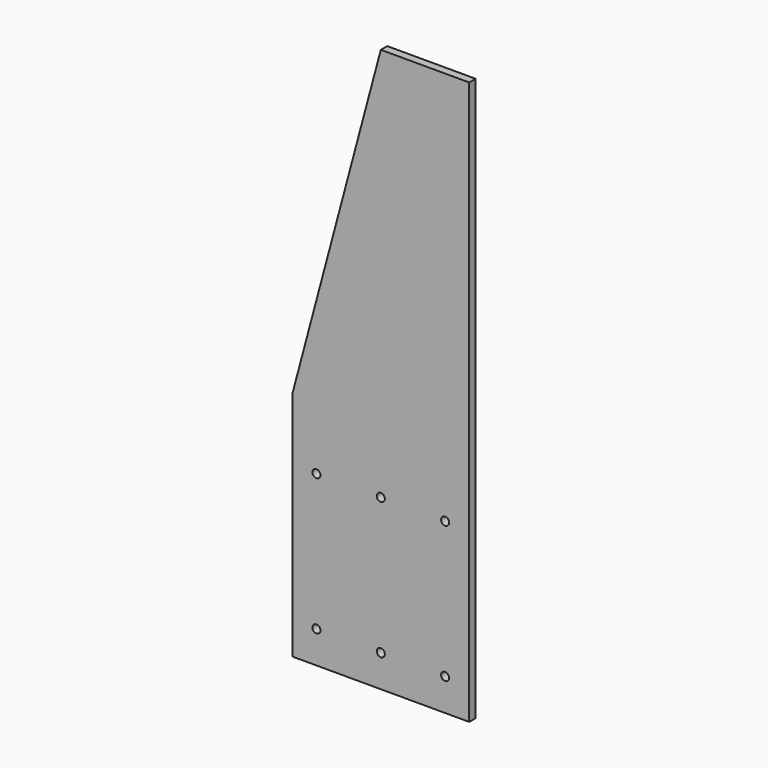
from build123d import *

# Parameters (mm, degrees)
F0_R     = 2.5
F1_DEPTH = 5


with BuildPart() as f1:
    # F0 (on Front) → F1 (new body)
    with BuildSketch(Plane.XZ):
        Polygon((-55, -175), (55, -175), (55, 175), (0, 175), (-55, -31.232355), align=None)
        with Locations((-40, -155)):
            Circle(F0_R, mode=Mode.SUBTRACT)
        with Locations((-40, -70)):
            Circle(F0_R, mode=Mode.SUBTRACT)
        with Locations((0, -155)):
            Circle(F0_R, mode=Mode.SUBTRACT)
        with Locations((40, -155)):
            Circle(F0_R, mode=Mode.SUBTRACT)
        with Locations((0, -70)):
            Circle(F0_R, mode=Mode.SUBTRACT)
        with Locations((40, -70)):
            Circle(F0_R, mode=Mode.SUBTRACT)
    extrude(amount=F1_DEPTH)


solid = f1.part
